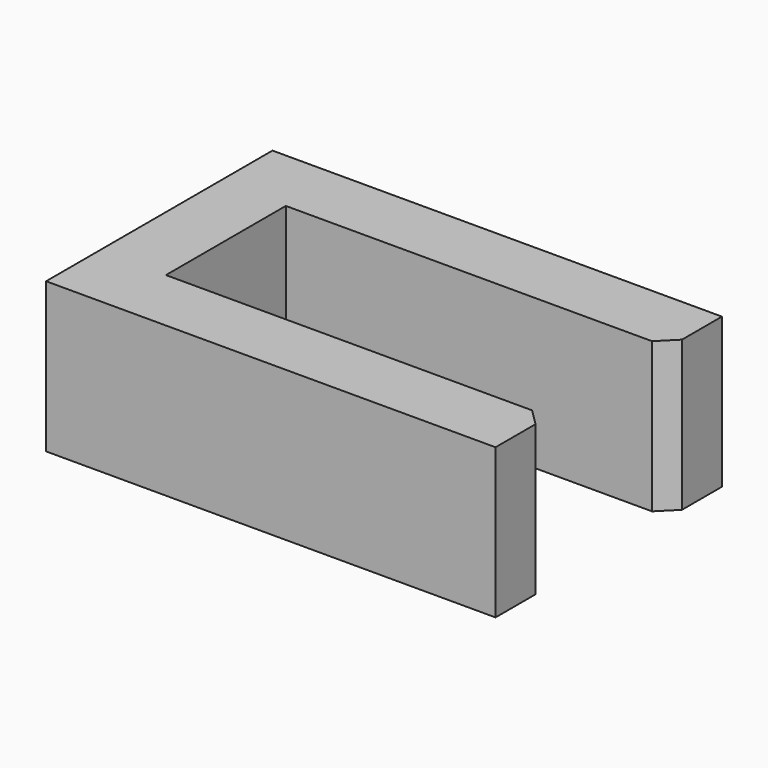
from build123d import *

# Parameters (mm, degrees)
PAD_DEPTH    = 9
CHAMFER_SIZE = 1


with BuildPart() as part:
    # Sketch → Pad (new body)
    with BuildSketch(Plane.XY):
        Polygon((18.45, 8.5), (-8.55, 8.5), (-8.55, -8.5), (18.45, -8.5), (18.45, -4.5), (-4.55, -4.5), (-4.55, 4.5), (18.45, 4.5), align=None)
    extrude(amount=PAD_DEPTH)

    # Chamfer
    chamfer_edges = [part.edges().sort_by_distance(p)[0] for p in [
        (18.45, 4.5, 4.5),
        (18.45, -4.5, 4.5),
    ]]
    chamfer(chamfer_edges, length=CHAMFER_SIZE)


solid = part.part
